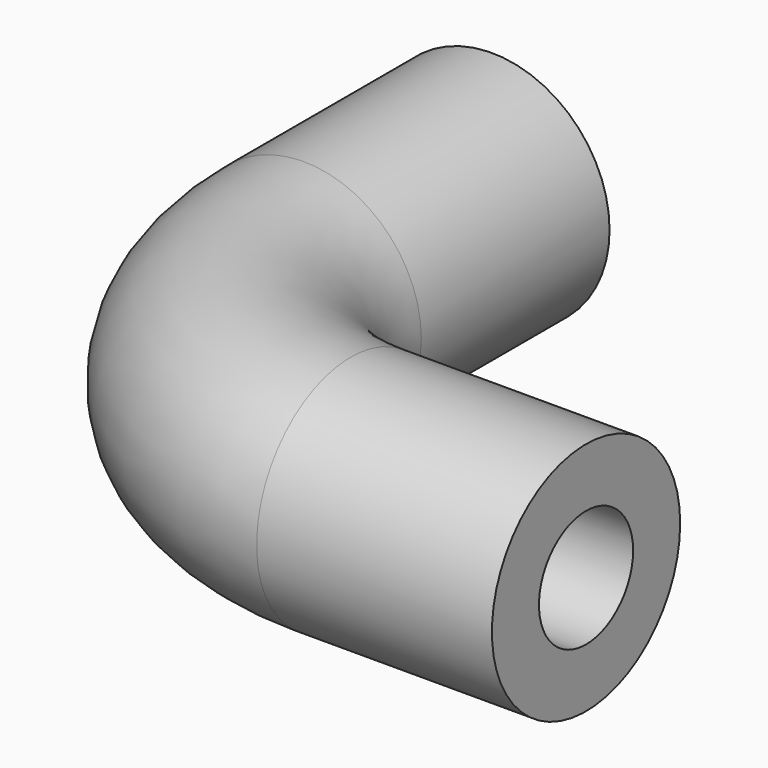
from build123d import *

# Parameters (mm, degrees)
F0_R        = 6.35
F0_R_2      = 3.175
F1_DEPTH    = 12.7
F2_R        = 6.35
F2_R_2      = 3.175
F3_DEPTH    = 12.7
F3_FACE_R   = 6.35
F3_FACE_R_2 = 3.175


with BuildPart() as f1:
    # F0 (on Right) → F1 (new body)
    with BuildSketch(Plane.YZ):
        with Locations((-25.4, 0)):
            Circle(F0_R)
        with Locations((-25.4, 0)):
            Circle(F0_R_2, mode=Mode.SUBTRACT)
    extrude(amount=-F1_DEPTH)



with BuildPart() as f3:
    # F2 (on Front) → F3 (new body)
    with BuildSketch(Plane.XZ):
        with Locations((-25.4, 0)):
            Circle(F2_R)
        with Locations((-25.4, 0)):
            Circle(F2_R_2, mode=Mode.SUBTRACT)
    extrude(amount=F3_DEPTH)


with BuildPart() as f1_1:
    add(f1.part)

    add(f3.part)  # F5 merges F3
    # F5: sweep along a path in F4
    with BuildLine(Plane.XY) as f5_path:
        ThreePointArc((-38.1, -12.7), (-30.6605122421, -30.6605122421), (-12.7, -38.1))
    # F3_face (on face) → F5 (sweep)
    with BuildSketch(Plane(origin=(-25.4, -12.7, 0), x_dir=(1, 0, 0), z_dir=(0, -1, 0))):
        Circle(F3_FACE_R)
        Circle(F3_FACE_R_2, mode=Mode.SUBTRACT)
    sweep(path=f5_path.line)


solid = f1_1.part
